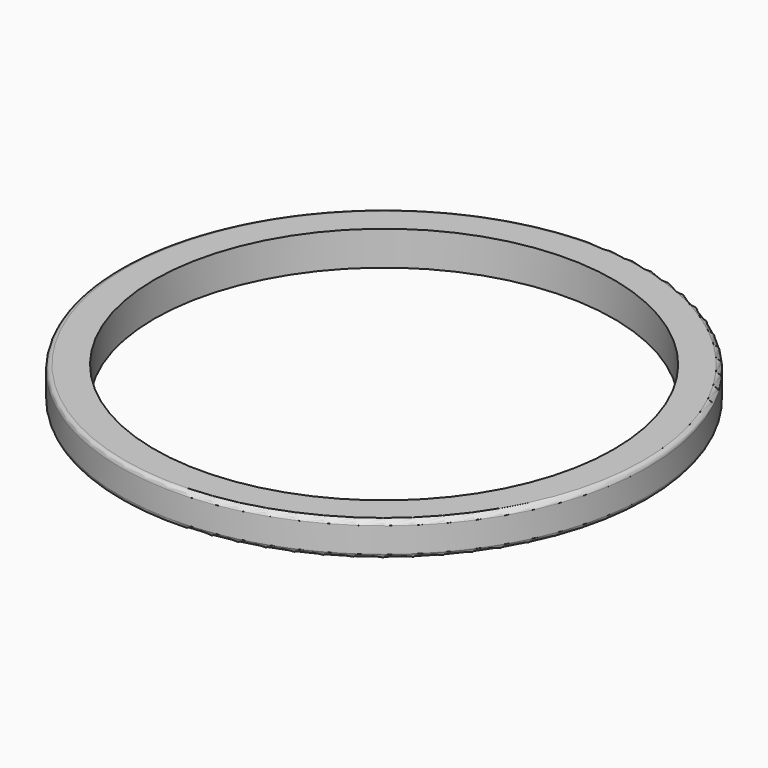
from build123d import *

# Parameters (mm, degrees)
F0_R     = 29.337
F0_R_2   = 25.527
F1_DEPTH = 3.81
F2_R     = 0.508
F3_R     = 0.508


with BuildPart() as f1:
    # F0 (on Top) → F1 (new body)
    with BuildSketch(Plane.XY):
        Circle(F0_R)
        Circle(F0_R_2, mode=Mode.SUBTRACT)
    extrude(amount=F1_DEPTH)

    # F2
    f2_edges = [f1.edges().sort_by_distance(p)[0] for p in [
        (-29.337, 0, 3.81),
    ]]
    fillet(f2_edges, radius=F2_R)

    # F3
    f3_edges = [f1.edges().sort_by_distance(p)[0] for p in [
        (-29.337, 0, 0),
    ]]
    fillet(f3_edges, radius=F3_R)


solid = f1.part
